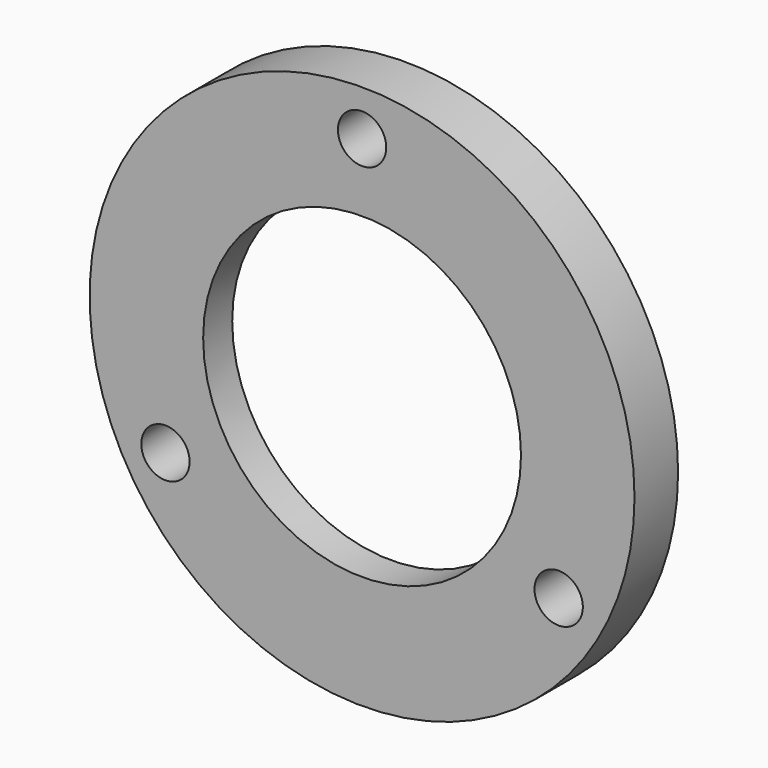
from build123d import *

# Parameters (mm, degrees)
F0_R     = 38.1
F0_R_2   = 25.4
F0_R_3   = 22.225
F1_DEPTH = 7.62
F2_DEPTH = 2.54
F3_D     = 6.7564


with BuildPart() as f1:
    # F0 (on Front) → F1 (new body)
    with BuildSketch(Plane.XZ):
        Circle(F0_R)
        with BuildLine():
            ThreePointArc((2.1860537536, 31.6746534154), (23.2106624925, 21.6639711655), (31.75, 0))
            ThreePointArc((31.75, 0), (30.9330089399, -7.15621813), (28.5240813906, -13.944148623))
            ThreePointArc((28.5240813906, -13.944148623), (29.3714883317, -14.7488554788), (29.6836584215, -15.875))
            ThreePointArc((29.6836584215, -15.875), (28.5571893518, -17.7878606445), (26.338027637, -17.7305047924))
            ThreePointArc((26.338027637, -17.7305047924), (0, -31.75), (-26.338027637, -17.7305047924))
            ThreePointArc((-26.338027637, -17.7305047924), (-29.3906088404, -16.9686759257), (-28.5240813906, -13.944148623))
            ThreePointArc((-28.5240813906, -13.944148623), (-27.4963065702, 15.875), (-2.1860537536, 31.6746534154))
            ThreePointArc((-2.1860537536, 31.6746534154), (-0.0376788829, 33.9370273028), (2.1873518513, 31.75))
            ThreePointArc((2.1873518513, 31.75), (2.1870273028, 31.7123211171), (2.1860537536, 31.6746534154))
        make_face(mode=Mode.SUBTRACT)
        with BuildLine():
            ThreePointArc((28.5240813906, -13.944148623), (30.9330089399, -7.15621813), (31.75, 0))
            ThreePointArc((31.75, 0), (23.2106624925, 21.6639711655), (2.1860537536, 31.6746534154))
            ThreePointArc((2.1860537536, 31.6746534154), (0, 29.5626481487), (-2.1860537536, 31.6746534154))
            ThreePointArc((-2.1860537536, 31.6746534154), (-27.4963065702, 15.875), (-28.5240813906, -13.944148623))
            ThreePointArc((-28.5240813906, -13.944148623), (-26.370162049, -13.9998182384), (-25.3089547188, -15.875))
            ThreePointArc((-25.3089547188, -15.875), (-25.5834459257, -16.9358827816), (-26.338027637, -17.7305047924))
            ThreePointArc((-26.338027637, -17.7305047924), (0, -31.75), (26.338027637, -17.7305047924))
            ThreePointArc((26.338027637, -17.7305047924), (25.6020042999, -14.7813240743), (28.5240813906, -13.944148623))
        make_face()
        Circle(F0_R_2, mode=Mode.SUBTRACT)
        Circle(F0_R_2)
        Circle(F0_R_3, mode=Mode.SUBTRACT)
        with BuildLine():
            ThreePointArc((-2.1860537536, 31.6746534154), (0, 31.75), (2.1860537536, 31.6746534154))
            ThreePointArc((2.1860537536, 31.6746534154), (2.1870273028, 31.7123211171), (2.1873518513, 31.75))
            ThreePointArc((2.1873518513, 31.75), (-0.0376788829, 33.9370273028), (-2.1860537536, 31.6746534154))
        make_face()
        with BuildLine():
            ThreePointArc((-2.1860537536, 31.6746534154), (0, 29.5626481487), (2.1860537536, 31.6746534154))
            ThreePointArc((2.1860537536, 31.6746534154), (0, 31.75), (-2.1860537536, 31.6746534154))
        make_face()
        with BuildLine():
            ThreePointArc((-26.338027637, -17.7305047924), (-27.4963065702, -15.875), (-28.5240813906, -13.944148623))
            ThreePointArc((-28.5240813906, -13.944148623), (-29.3906088404, -16.9686759257), (-26.338027637, -17.7305047924))
        make_face()
        with BuildLine():
            ThreePointArc((-25.3089547188, -15.875), (-26.370162049, -13.9998182384), (-28.5240813906, -13.944148623))
            ThreePointArc((-28.5240813906, -13.944148623), (-27.4963065702, -15.875), (-26.338027637, -17.7305047924))
            ThreePointArc((-26.338027637, -17.7305047924), (-25.5834459257, -16.9358827816), (-25.3089547188, -15.875))
        make_face()
        with BuildLine():
            ThreePointArc((29.6836584215, -15.875), (29.3714883317, -14.7488554788), (28.5240813906, -13.944148623))
            ThreePointArc((28.5240813906, -13.944148623), (27.4963065702, -15.875), (26.338027637, -17.7305047924))
            ThreePointArc((26.338027637, -17.7305047924), (28.5571893518, -17.7878606445), (29.6836584215, -15.875))
        make_face()
        with BuildLine():
            ThreePointArc((26.338027637, -17.7305047924), (27.4963065702, -15.875), (28.5240813906, -13.944148623))
            ThreePointArc((28.5240813906, -13.944148623), (25.6020042999, -14.7813240743), (26.338027637, -17.7305047924))
        make_face()
    extrude(amount=F1_DEPTH)

    # F0 (on Front) → F2 (cut)
    with BuildSketch(Plane.XZ):
        Circle(F0_R_2)
        Circle(F0_R_3, mode=Mode.SUBTRACT)
    extrude(amount=F2_DEPTH, mode=Mode.SUBTRACT)

    # F3 (through all)
    with Locations(Plane(origin=(0, 0, 0), x_dir=(1, 0, 0), z_dir=(0, 1, 0))):
        with Locations((27.4963065702, 15.875), (-27.4963065702, 15.875), (0, -31.75)):
            Hole(F3_D / 2)


solid = f1.part
